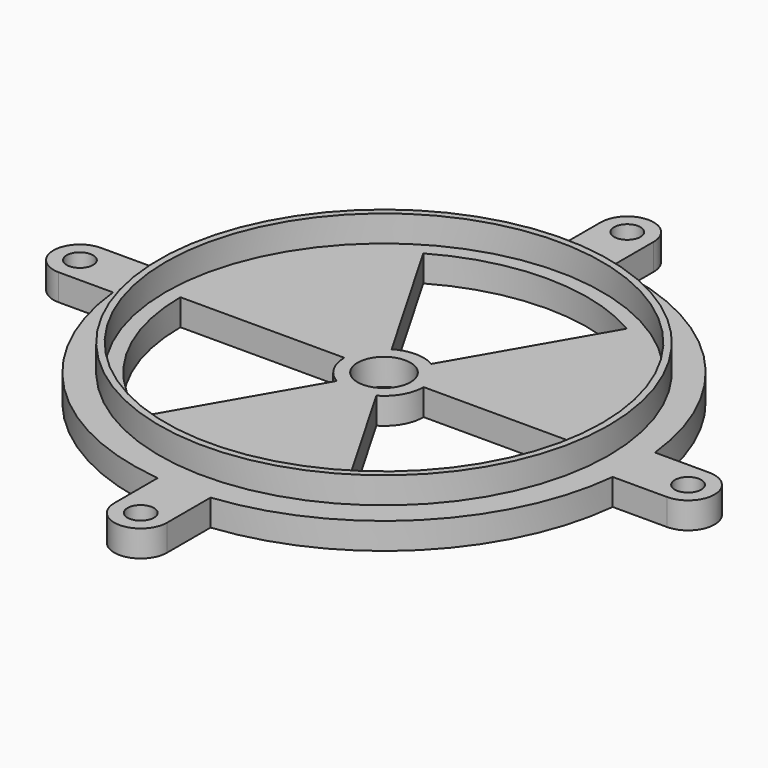
from build123d import *

# Parameters (mm, degrees)
F0_R     = 1.5875
F1_DEPTH = 3.175
F2_R     = 26.9875
F2_R_2   = 26.19375
F3_DEPTH = 3.175
F4_R     = 3.175
F5_DEPTH = 3.175


with BuildPart() as f1:
    # F0 (on Top) → F1 (new body)
    with BuildSketch(Plane.XY):
        with BuildLine():
            Line((36.5125, 3.175), (29.994929, 3.175))
            ThreePointArc((29.994929, 3.175), (21.328108, 21.328108), (3.175, 29.994929))
            Line((3.175, 29.994929), (3.175, 36.5125))
            ThreePointArc((3.175, 36.5125), (0, 39.6875), (-3.175, 36.5125))
            Line((-3.175, 36.5125), (-3.175, 29.994929))
            ThreePointArc((-3.175, 29.994929), (-21.328108, 21.328108), (-29.994929, 3.175))
            Line((-29.994929, 3.175), (-30.1625, 3.175))
            Line((-30.1625, 3.175), (-36.5125, 3.175))
            ThreePointArc((-36.5125, 3.175), (-39.6875, 0), (-36.5125, -3.175))
            Line((-36.5125, -3.175), (-30.1625, -3.175))
            Line((-30.1625, -3.175), (-29.994929, -3.175))
            ThreePointArc((-29.994929, -3.175), (-21.328108, -21.328108), (-3.175, -29.994929))
            Line((-3.175, -29.994929), (-3.175, -36.5125))
            ThreePointArc((-3.175, -36.5125), (0, -39.6875), (3.175, -36.5125))
            Line((3.175, -36.5125), (3.175, -29.994929))
            ThreePointArc((3.175, -29.994929), (21.328108, -21.328108), (29.994929, -3.175))
            Line((29.994929, -3.175), (36.5125, -3.175))
            ThreePointArc((36.5125, -3.175), (39.6875, 0), (36.5125, 3.175))
        make_face()
        with Locations((0, -36.5125)):
            Circle(F0_R, mode=Mode.SUBTRACT)
        with Locations((-36.5125, 0)):
            Circle(F0_R, mode=Mode.SUBTRACT)
        with Locations((36.5125, 0)):
            Circle(F0_R, mode=Mode.SUBTRACT)
        with Locations((0, 36.5125)):
            Circle(F0_R, mode=Mode.SUBTRACT)
    extrude(amount=F1_DEPTH)

    # F2 (on face) → F3 (join)
    with BuildSketch(Plane.XY.offset(3.175)):
        Circle(F2_R)
        Circle(F2_R_2, mode=Mode.SUBTRACT)
    extrude(amount=F3_DEPTH)

    # F4 (on face) → F5 (cut)
    with BuildSketch(Plane.XY.offset(3.175)):
        with BuildLine():
            ThreePointArc((-2.38125, 4.124446), (0, 4.7625), (2.38125, 4.124446))
            Line((2.38125, 4.124446), (12.22375, 21.172156))
            ThreePointArc((12.22375, 21.172156), (0, 24.4475), (-12.22375, 21.172156))
            Line((-12.22375, 21.172156), (-2.38125, 4.124446))
        make_face()
        Circle(F4_R)
        with BuildLine():
            ThreePointArc((4.7625, 0), (4.124446, -2.38125), (2.38125, -4.124446))
            Line((2.38125, -4.124446), (12.22375, -21.172156))
            ThreePointArc((12.22375, -21.172156), (21.172156, -12.22375), (24.4475, 0))
            Line((24.4475, 0), (4.7625, 0))
        make_face()
        with BuildLine():
            Line((-4.7625, 0), (-24.4475, 0))
            ThreePointArc((-24.4475, 0), (-21.172156, -12.22375), (-12.22375, -21.172156))
            Line((-12.22375, -21.172156), (-2.38125, -4.124446))
            ThreePointArc((-2.38125, -4.124446), (-4.124446, -2.38125), (-4.7625, 0))
        make_face()
    extrude(amount=-F5_DEPTH, mode=Mode.SUBTRACT)


solid = f1.part
